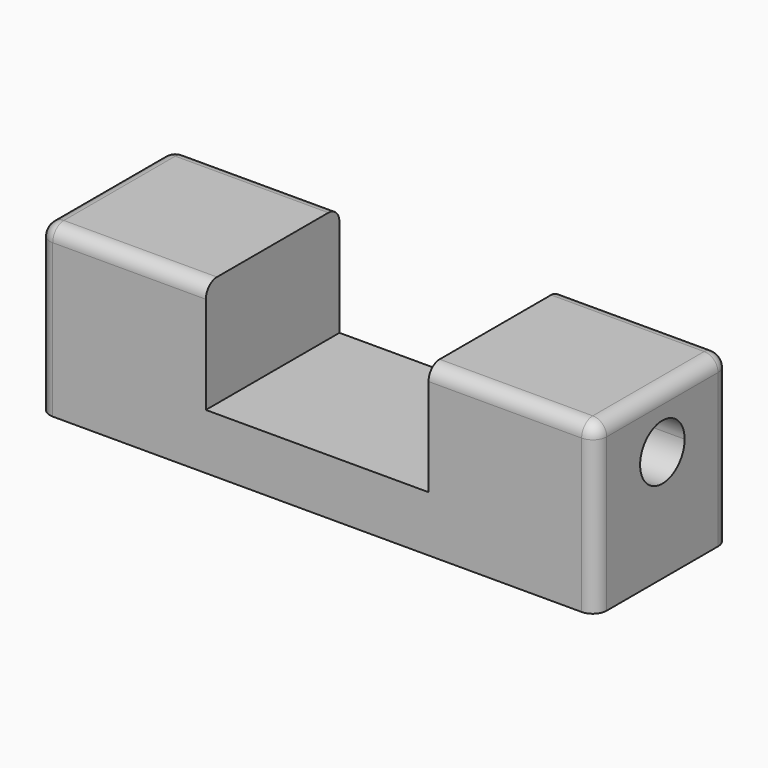
from build123d import *

# Parameters (mm, degrees)
F1_DEPTH = 60
F3_DEPTH = 60
F4_R     = 5


with BuildPart() as f1:
    # F0 (on Front) → F1 (new body)
    with BuildSketch(Plane.XZ):
        Polygon((-100, -30), (100, -30), (100, 30), (40, 30), (40, -10), (-40, -10), (-40, 30), (-100, 30), align=None)
    extrude(amount=F1_DEPTH)

    # F2 (on face) → F3 (cut)
    with BuildSketch(Plane.YZ.offset(100)):
        with BuildLine():
            ThreePointArc((-20, 10), (-22.928932, 17.071068), (-30, 20))
            ThreePointArc((-30, 20), (-37.071068, 2.928932), (-20, 10))
        make_face()
    extrude(amount=-F3_DEPTH, mode=Mode.SUBTRACT)

    # F4
    f4_edges = [f1.edges().sort_by_distance(p)[0] for p in [
        (70, -60, 30),
        (70, 0, 30),
        (100, -30, 30),
        (-70, -60, 30),
        (-70, 0, 30),
        (-100, -30, 30),
        (100, 0, 0),
        (100, -60, 0),
        (-100, 0, 0),
        (-100, -60, 0),
    ]]
    fillet(f4_edges, radius=F4_R)


solid = f1.part
